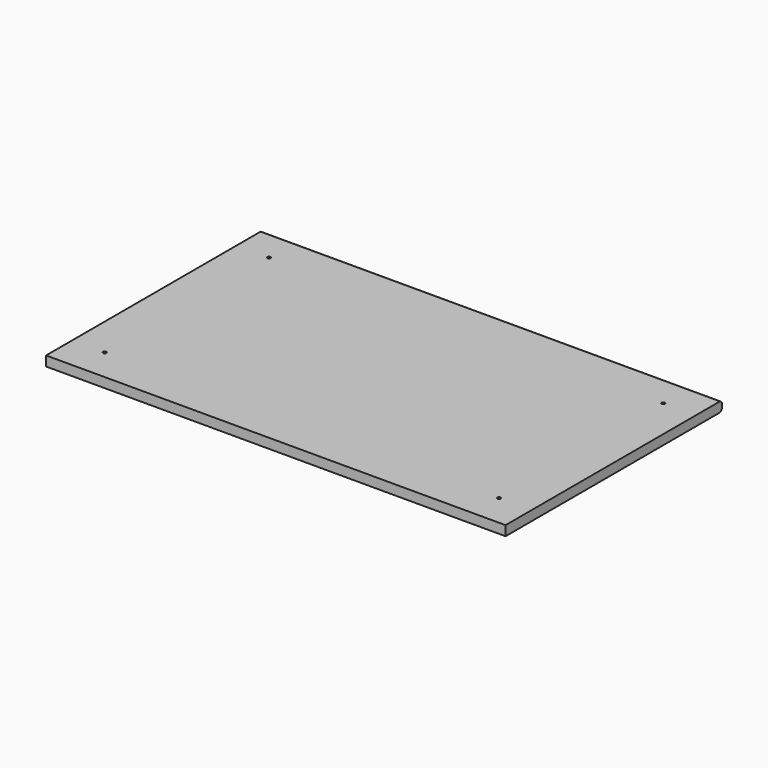
from build123d import *

# Parameters (mm, degrees)
F0_W     = 895.35
F0_H     = 527.05
F1_DEPTH = 19.05
F2_R     = 6.35
F4_D     = 6.35


with BuildPart() as f1:
    # F0 (on Top) → F1 (new body)
    with BuildSketch(Plane.XY):
        Rectangle(F0_W, F0_H)
    extrude(amount=F1_DEPTH)

    # F2
    f2_edges = [f1.edges().sort_by_distance(p)[0] for p in [
        (0, 263.525, 19.05),
        (0, 263.525, 0),
    ]]
    fillet(f2_edges, radius=F2_R)

    # F4 (through all)
    with Locations(Plane.XY.offset(19.05)):
        with Locations((-384.175, -200.025), (-384.175, 200.025), (384.175, 200.025), (384.175, -200.025)):
            Hole(F4_D / 2)


solid = f1.part
